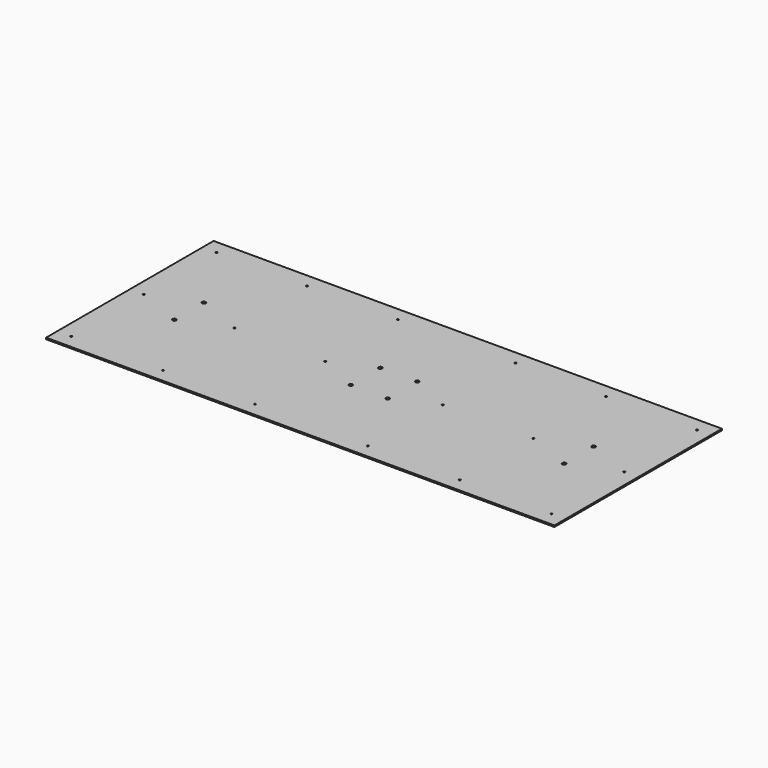
from build123d import *

# Parameters (mm, degrees)
SKETCH_W   = 874
SKETCH_H   = 360
SKETCH_R   = 1.5
SKETCH_R_2 = 3.175
SKETCH_R_3 = 1.4986
PAD_DEPTH  = 2.54


with BuildPart() as part:
    # Sketch → Pad (new body)
    with BuildSketch(Plane.XY):
        Rectangle(SKETCH_W, SKETCH_H)
        with Locations((-413, -1e-05)):
            Circle(SKETCH_R, mode=Mode.SUBTRACT)
        with Locations((-413, -156.00001)):
            Circle(SKETCH_R, mode=Mode.SUBTRACT)
        with Locations((-335, 31.75)):
            Circle(SKETCH_R_2, mode=Mode.SUBTRACT)
        with Locations((-257, 156)):
            Circle(SKETCH_R_3, mode=Mode.SUBTRACT)
        with Locations((-335, -31.75)):
            Circle(SKETCH_R_2, mode=Mode.SUBTRACT)
        with Locations((-257, 0)):
            Circle(SKETCH_R, mode=Mode.SUBTRACT)
        with Locations((-255, -156)):
            Circle(SKETCH_R, mode=Mode.SUBTRACT)
        with Locations((-101, 156)):
            Circle(SKETCH_R, mode=Mode.SUBTRACT)
        with Locations((-101, 0)):
            Circle(SKETCH_R, mode=Mode.SUBTRACT)
        with Locations((-97, -156)):
            Circle(SKETCH_R, mode=Mode.SUBTRACT)
        with Locations((413, 156)):
            Circle(SKETCH_R, mode=Mode.SUBTRACT)
        with Locations((413, 0)):
            Circle(SKETCH_R, mode=Mode.SUBTRACT)
        with Locations((413, -156)):
            Circle(SKETCH_R, mode=Mode.SUBTRACT)
        with Locations((335, 31.75)):
            Circle(SKETCH_R_2, mode=Mode.SUBTRACT)
        with Locations((257, 156)):
            Circle(SKETCH_R, mode=Mode.SUBTRACT)
        with Locations((335, -31.75)):
            Circle(SKETCH_R_2, mode=Mode.SUBTRACT)
        with Locations((257, 0)):
            Circle(SKETCH_R, mode=Mode.SUBTRACT)
        with Locations((255, -156)):
            Circle(SKETCH_R, mode=Mode.SUBTRACT)
        with Locations((101, 156)):
            Circle(SKETCH_R, mode=Mode.SUBTRACT)
        with Locations((101, 0)):
            Circle(SKETCH_R, mode=Mode.SUBTRACT)
        with Locations((97, -156)):
            Circle(SKETCH_R, mode=Mode.SUBTRACT)
        with Locations((-31.75, 31.75)):
            Circle(SKETCH_R_2, mode=Mode.SUBTRACT)
        with Locations((-31.75, -31.75)):
            Circle(SKETCH_R_2, mode=Mode.SUBTRACT)
        with Locations((31.75, 31.75)):
            Circle(SKETCH_R_2, mode=Mode.SUBTRACT)
        with Locations((31.75, -31.75)):
            Circle(SKETCH_R_2, mode=Mode.SUBTRACT)
        with Locations((-413, 156)):
            Circle(SKETCH_R_3, mode=Mode.SUBTRACT)
    extrude(amount=PAD_DEPTH)


solid = part.part
